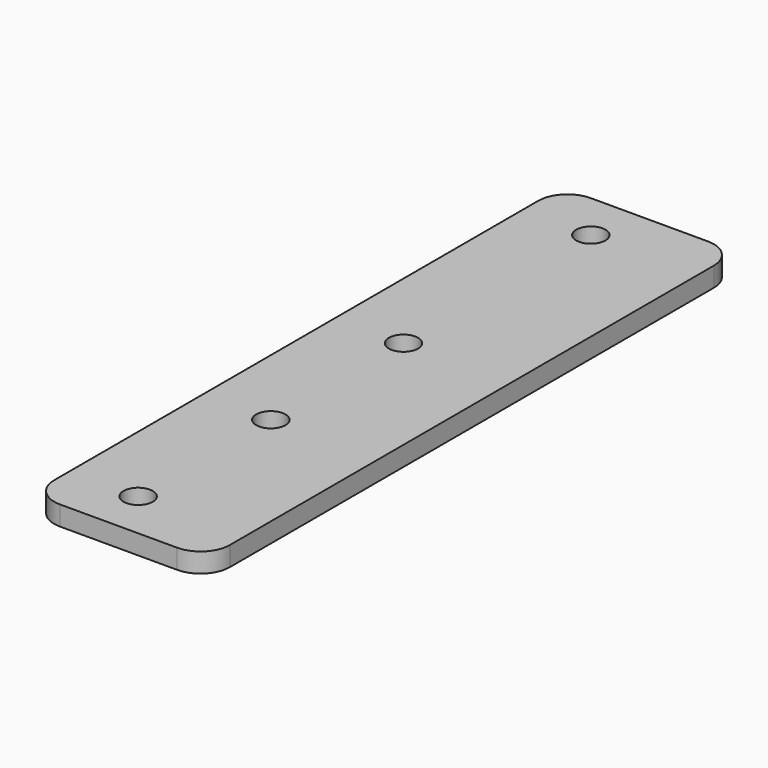
from build123d import *

# Parameters (mm, degrees)
F0_W     = 18
F0_H     = 68
F0_R     = 1.5
F1_DEPTH = 2
F2_R     = 3


with BuildPart() as f1:
    # F0 (on Top) → F1 (new body)
    with BuildSketch(Plane.XY):
        with Locations((9, 34)):
            Rectangle(F0_W, F0_H)
        with Locations((7, 5)):
            Circle(F0_R, mode=Mode.SUBTRACT)
        with Locations((7, 22)):
            Circle(F0_R, mode=Mode.SUBTRACT)
        with Locations((7, 39)):
            Circle(F0_R, mode=Mode.SUBTRACT)
        with Locations((7, 63)):
            Circle(F0_R, mode=Mode.SUBTRACT)
    extrude(amount=F1_DEPTH)

    # F2
    f2_edges = [f1.edges().sort_by_distance(p)[0] for p in [
        (18, 68, 1),
        (0, 68, 1),
        (18, 0, 1),
        (0, 0, 1),
    ]]
    fillet(f2_edges, radius=F2_R)


solid = f1.part
